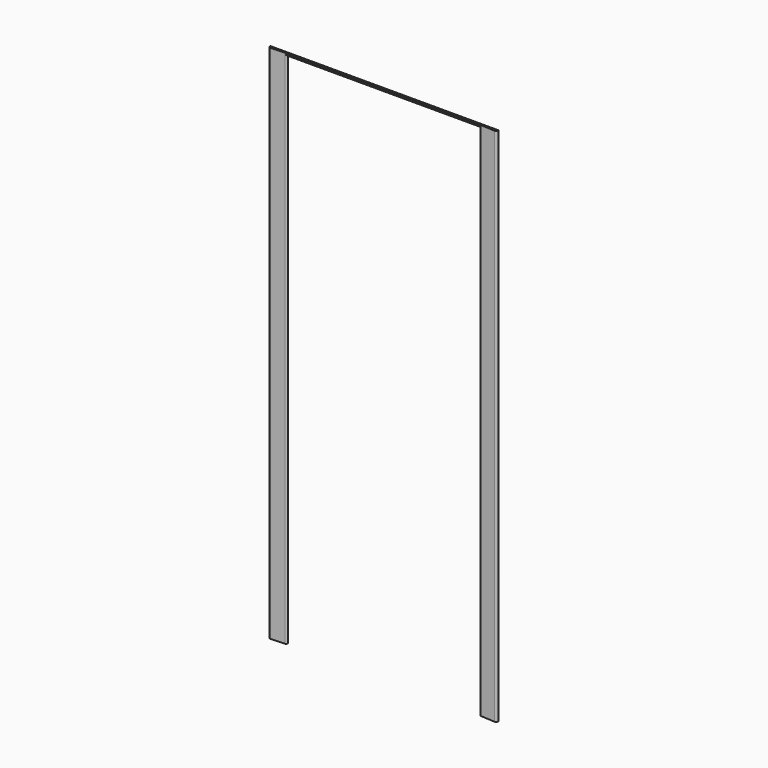
from build123d import *

# Parameters (mm, degrees)
SKETCH278_W         = 1600
SKETCH278_H         = 400
EXTRUDE039512_DEPTH = 500


with BuildPart() as extrude039512:
    # Sketch278 (on Sketch) → Extrude039512 (new body, symmetric)
    with BuildSketch(Plane.XZ):
        with Locations((0, 2300)):
            Rectangle(SKETCH278_W, SKETCH278_H)
        with Locations((0, -200)):
            Rectangle(SKETCH278_W, SKETCH278_H)
    extrude(amount=EXTRUDE039512_DEPTH, both=True)


with BuildPart() as trim_two_parts_external:
    # Sweep011: sweep along a path in Sketch194
    with BuildLine(Plane.XZ.offset(140)) as sweep011_path:
        Line((-390, 2090), (-390, 0))
        Line((-390, 0), (390, 0))
        Line((390, 0), (390, 2090))
        Line((390, 2090), (-390, 2090))
    # Clone2D027 (on Sketch) → Sweep011 (sweep)
    with BuildSketch(Plane(origin=(0, -140, 0), x_dir=(0, 0, 1), z_dir=(1, 0, 0))):
        with BuildLine():
            Line((-61.571224, 10), (-5.678418, 7))
            ThreePointArc((-5.678418, 7), (-1.645147, 5.136003), (0, 1.008624))
            Line((0, 1.008624), (0, 0))
            Line((0, 0), (-70, 0))
            Line((-70, 0), (-70, 2.011499))
            ThreePointArc((-70, 2.011499), (-67.503171, 7.81797), (-61.571224, 10))
        make_face()
    sweep(path=sweep011_path.line, is_frenet=True, transition=Transition.RIGHT)

    # Cut077: cut Extrude039512
    add(extrude039512.part, mode=Mode.SUBTRACT)


solid = trim_two_parts_external.part
